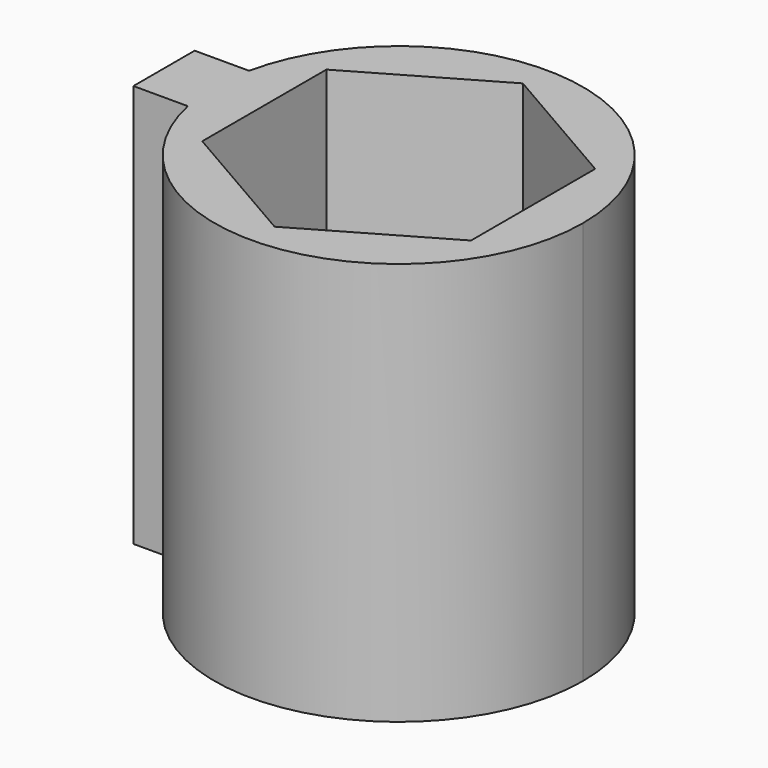
from build123d import *

# Parameters (mm, degrees)
F1_DEPTH = 20
F3_DEPTH = 20


with BuildPart() as f1:
    # F0 (on Top) → F1 (new body)
    with BuildSketch(Plane.XY):
        with BuildLine():
            ThreePointArc((-8.944425, -1.9), (0.955226, -9.093969), (9.144, 0))
            ThreePointArc((9.144, 0), (0.955226, 9.093969), (-8.944425, 1.9))
            ThreePointArc((-8.944425, 1.9), (-9.144, 0), (-8.944425, -1.9))
        make_face()
        with BuildLine():
            ThreePointArc((-8.944425, -1.9), (-9.144, 0), (-8.944425, 1.9))
            Line((-8.944425, 1.9), (-11.644, 1.9))
            Line((-11.644, 1.9), (-11.644, -1.9))
            Line((-11.644, -1.9), (-8.944425, -1.9))
        make_face()
    extrude(amount=F1_DEPTH)

    # F2 (on face) → F3 (cut, through all)
    with BuildSketch(Plane.XY.offset(20)):
        Polygon((6.6675, -3.849483), (6.6675, 3.849483), (0, 7.698966), (-6.6675, 3.849483), (-6.6675, -3.849483), (0, -7.698966), align=None)
    extrude(amount=-F3_DEPTH, mode=Mode.SUBTRACT)


solid = f1.part
